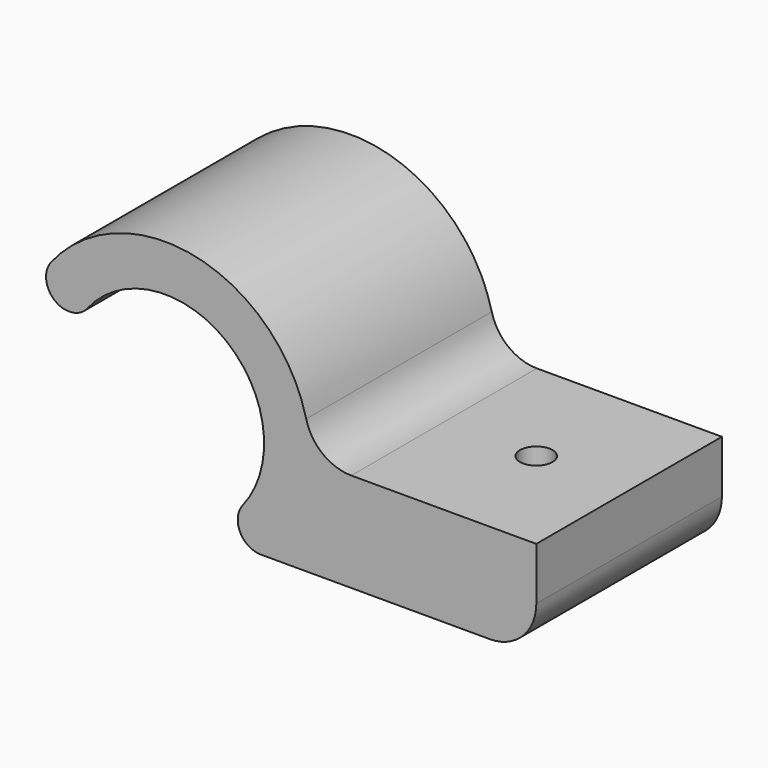
from build123d import *

# Parameters (mm, degrees)
F1_DEPTH = 12.5
F2_R     = 5
F3_R     = 1.75
F4_DEPTH = 10.669


with BuildPart() as f1:
    # F0 (on Front) → F1 (new body, symmetric)
    with BuildSketch(Plane.XZ):
        with BuildLine():
            ThreePointArc((-8.367673, 6.617271), (6.617271, 8.367673), (8.367673, -6.617271))
            ThreePointArc((8.367673, -6.617271), (8.078399, -9.257307), (10.328601, -10.668))
            Line((10.328601, -10.668), (40, -10.668))
            Line((40, -10.668), (40, 0))
            Line((40, 0), (15.668, 0))
            ThreePointArc((15.668, 0), (5.144603, 14.7993), (-12.289529, 9.718729))
            ThreePointArc((-12.289529, 9.718729), (-11.87933, 6.207072), (-8.367673, 6.617271))
        make_face()
    extrude(amount=F1_DEPTH, both=True)

    # F2
    f2_edges = [f1.edges().sort_by_distance(p)[0] for p in [
        (15.668, 0, 0),
        (40, 0, -10.668),
    ]]
    fillet(f2_edges, radius=F2_R)

    # F3 (on Top) → F4 (cut, through all)
    with BuildSketch(Plane.XY):
        with Locations((30, 0)):
            Circle(F3_R)
    extrude(amount=-F4_DEPTH, mode=Mode.SUBTRACT)


solid = f1.part
